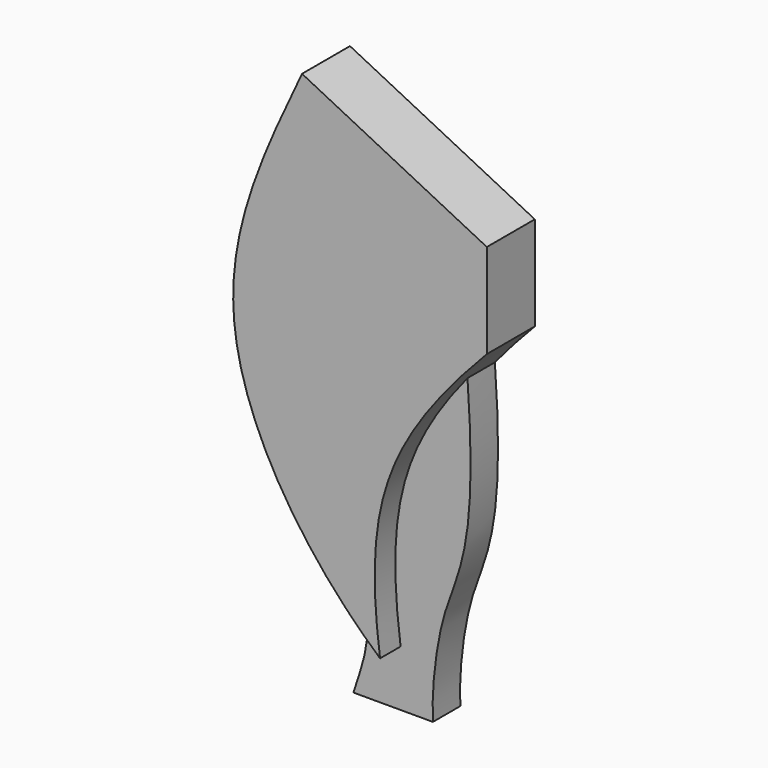
from build123d import *

# Parameters (mm, degrees)
F1_DEPTH = 7
F3_DEPTH = 4


with BuildPart() as f1:
    # F0 (on Front) → F1 (new body)
    with BuildSketch(Plane.XZ):
        with BuildLine():
            Line((22.8211954236, 14.845976606), (1.242839382, 25.6351549178))
            add(Edge.make_bspline(
                [(1.242839382, 25.6351549178), (-3.3075517331, 15.9610341908), (-12.3279143796, -2.9158635901), (1.7093285047, -23.9004648882), (10.3544034064, -31.4912609756)],
                knots=[0, 0, 0, 0, 0.4850736987, 1, 1, 1, 1], degree=3))
            add(Edge.make_bspline(
                [(22.8211954236, 3.8410162088), (18.2514117813, -0.9363969588), (9.9192151448, -11.0250196853), (9.2169178473, -23.0118236581), (10.3544034064, -31.4912609756)],
                knots=[0, 0, 0, 0, 0.4893116722, 1, 1, 1, 1], degree=3))
            Line((22.8211954236, 3.8410162088), (22.8211954236, 14.845976606))
        make_face()
    extrude(amount=F1_DEPTH)

    # F2 (on face) → F3 (join)
    with BuildSketch(Plane(origin=(0, 0, 0), x_dir=(-1, 0, 0), z_dir=(0, 1, 0))):
        with BuildLine():
            add(Edge.make_bspline(
                [(-18.1619582568, -1.3670217727), (-15.565277104, -4.5308071679), (-9.7961358608, -13.1257357988), (-9.2169178473, -23.0118236581), (-10.3544034064, -31.4912609756)],
                knots=[0.1752523957, 0.1752523957, 0.1752523957, 0.1752523957, 0.4893116722, 1, 1, 1, 1], degree=3))
            add(Edge.make_bspline(
                [(-18.1619582568, -1.3670217727), (-19.4743704051, -19.1238373518), (-15.2067467943, -23.1122856364), (-13.9544907725, -34.7061504027), (-14.1263287514, -38.0146540701)],
                knots=[0, 0, 0, 0, 0.5979652383, 1, 1, 1, 1], degree=3))
            Line((-14.1263287514, -38.0146540701), (-4.847635515, -38.0146540701))
            add(Edge.make_bspline(
                [(-4.847635515, -38.0146540701), (-5.2395921286, -36.6450878596), (-6.6168872423, -33.3765336604), (-6.6371501943, -28.8037641652), (-6.6127115831, -27.9098357264)],
                knots=[0, 0, 0, 0, 0.5005693945, 1, 1, 1, 1], degree=3))
            add(Edge.make_bspline(
                [(-6.6127115831, -27.9098357264), (-7.8184565023, -29.1662793194), (-9.0708116266, -30.3642049847), (-10.3544034064, -31.4912609756)],
                knots=[0.9235454666, 0.9235454666, 0.9235454666, 0.9235454666, 1, 1, 1, 1], degree=3))
        make_face()
    extrude(amount=-F3_DEPTH)


solid = f1.part
